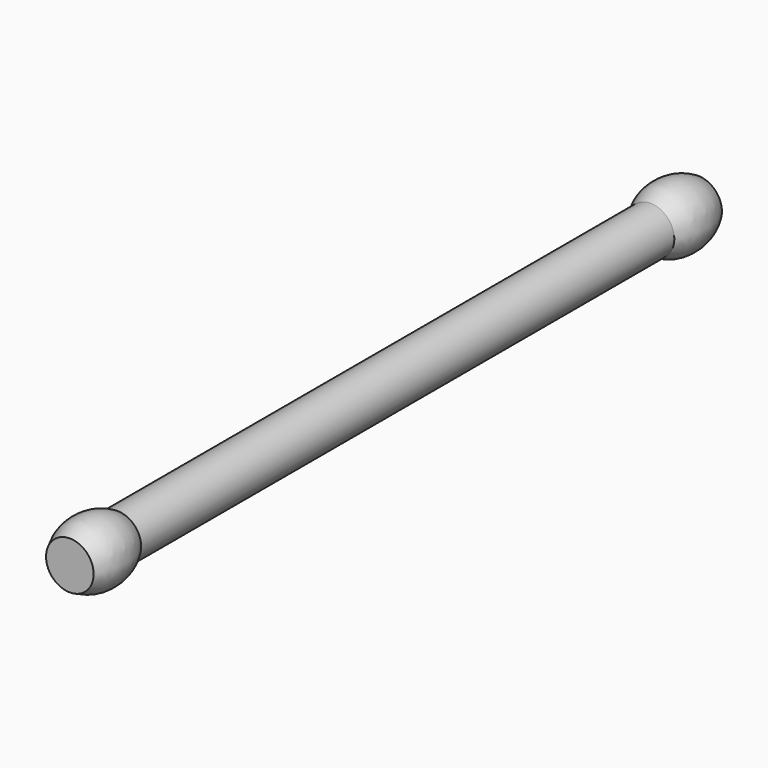
from build123d import *


with BuildPart() as f1:
    # F0 (on Top) → F1 (revolve)
    with BuildSketch(Plane.XY):
        Polygon((5, 82.5), (0, 82.5), (0, -82.5), (5, -82.5), (5, -70), (5, 0), (5, 70), align=None)
        with BuildLine():
            ThreePointArc((5, 70), (6.792476, 76.25), (5, 82.5))
            Line((5, 82.5), (5, 70))
        make_face()
        with BuildLine():
            Line((5, -70), (5, -82.5))
            ThreePointArc((5, -82.5), (6.792476, -76.25), (5, -70))
        make_face()
    revolve(axis=Axis((0, 0, 0), (0, -1, 0)))


solid = f1.part
